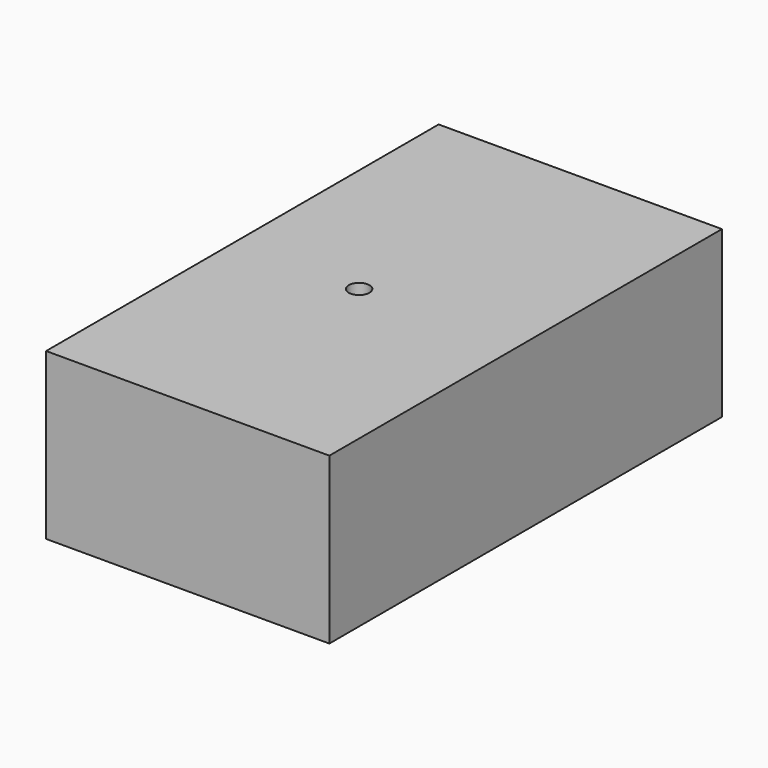
from build123d import *

# Parameters (mm, degrees)
F0_W     = 86.9941338897
F0_H     = 125.2852901816
F1_DEPTH = 25.4
F2_DEPTH = 25.4
F4_D     = 6.35
F5_DEPTH = 25.4


with BuildPart() as f1:
    # F0 (on Top) → F1 (new body)
    with BuildSketch(Plane.XY):
        with Locations((5.0123818219, 15.9891955554)):
            Rectangle(F0_W, F0_H)
    extrude(amount=F1_DEPTH)

    # F2 (add): a face of the model
    f2_faces = [f1.faces().sort_by_distance(p)[0] for p in [
        (5.0123818219, -46.6534495354, 12.7),
    ]]
    extrude(f2_faces, amount=F2_DEPTH)

    # F4 (through all)
    with Locations(Plane.XY.offset(25.4)):
        with Locations((0, 0)):
            Hole(F4_D / 2)

    # F5 (add): a face of the model
    f5_faces = [f1.faces().sort_by_distance(p)[0] for p in [
        (5.0245204925, 3.2971611221, 25.4),
    ]]
    extrude(f5_faces, amount=F5_DEPTH)


solid = f1.part
